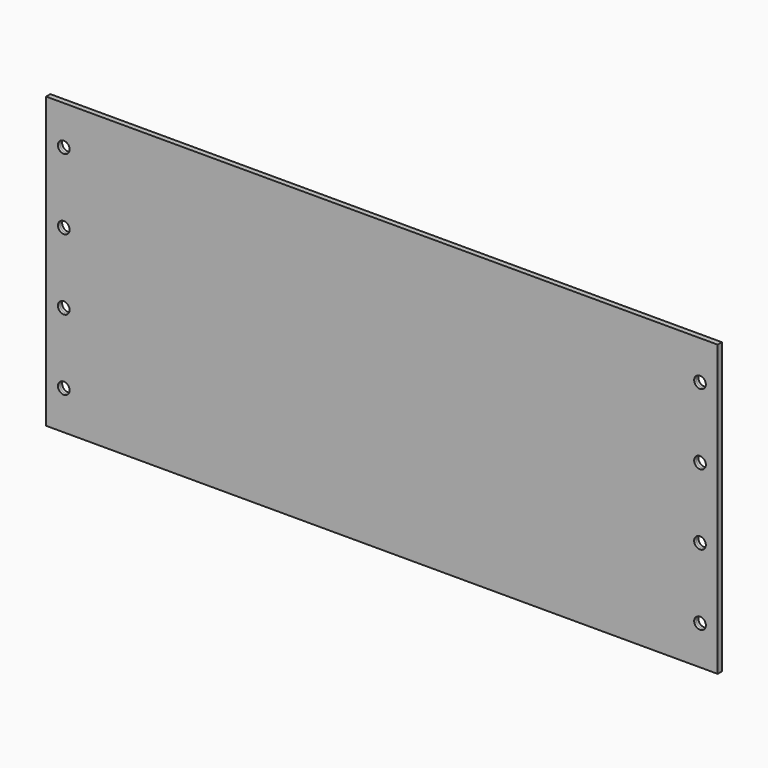
from build123d import *

# Parameters (mm, degrees)
SKETCH_W       = 190
SKETCH_H       = 82
SKETCH_R       = 1.65
PAD_DEPTH      = 0.75
PAD_DEPTH_BACK = 0.75


with BuildPart() as part:
    # Sketch → Pad (new body, two sides)
    with BuildSketch(Plane.XZ) as pad_sk:
        Rectangle(SKETCH_W, SKETCH_H)
        with Locations((90, 30)):
            Circle(SKETCH_R, mode=Mode.SUBTRACT)
        with Locations((90, 10)):
            Circle(SKETCH_R, mode=Mode.SUBTRACT)
        with Locations((90, -30)):
            Circle(SKETCH_R, mode=Mode.SUBTRACT)
        with Locations((90, -10)):
            Circle(SKETCH_R, mode=Mode.SUBTRACT)
        with Locations((-90, 30)):
            Circle(SKETCH_R, mode=Mode.SUBTRACT)
        with Locations((-90, 10)):
            Circle(SKETCH_R, mode=Mode.SUBTRACT)
        with Locations((-90, -30)):
            Circle(SKETCH_R, mode=Mode.SUBTRACT)
        with Locations((-90, -10)):
            Circle(SKETCH_R, mode=Mode.SUBTRACT)
    extrude(amount=PAD_DEPTH)
    extrude(pad_sk.sketch, amount=-PAD_DEPTH_BACK)


solid = part.part
